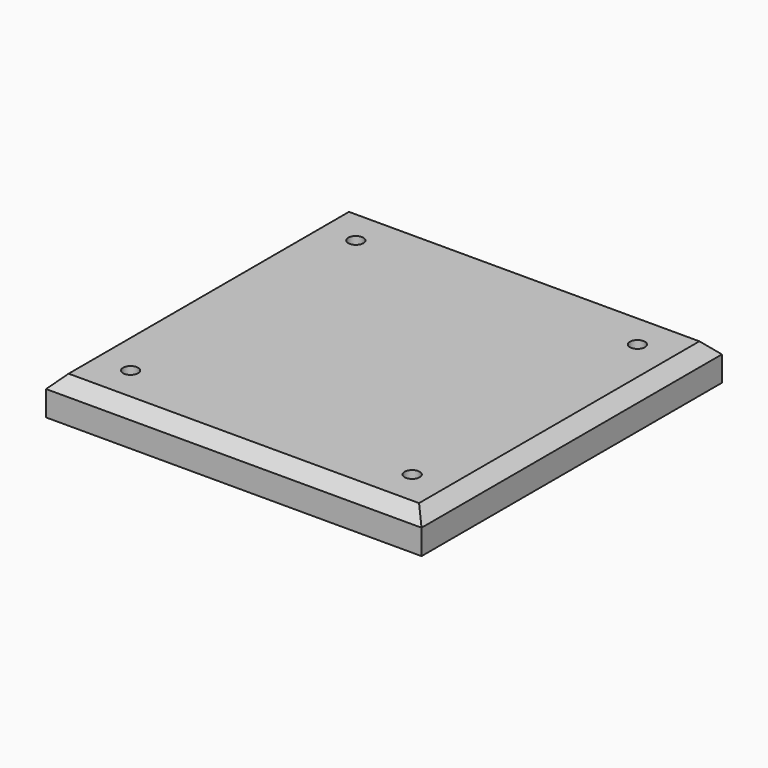
from build123d import *

# Parameters (mm, degrees)
F0_W          = 300
F0_H          = 300
F0_R          = 6
F1_DEPTH      = 15
F2_SIZE2      = 10
F2_SIZE       = 10
F3_DEPTH      = 5
F3_DEPTH_BACK = 15
F4_DEPTH      = 5
F4_DEPTH_BACK = 15


with BuildPart() as f1:
    # F0 (on Top) → F1 (new body, symmetric)
    with BuildSketch(Plane.XY):
        Rectangle(F0_W, F0_H)
        with Locations((-125, -125)):
            Circle(F0_R, mode=Mode.SUBTRACT)
        with Locations((-112.5, -112.5)):
            Circle(F0_R, mode=Mode.SUBTRACT)
        with Locations((125, -125)):
            Circle(F0_R, mode=Mode.SUBTRACT)
        with Locations((112.5, -112.5)):
            Circle(F0_R, mode=Mode.SUBTRACT)
        with Locations((-125, 125)):
            Circle(F0_R, mode=Mode.SUBTRACT)
        with Locations((-112.5, 112.5)):
            Circle(F0_R, mode=Mode.SUBTRACT)
        with Locations((112.5, 112.5)):
            Circle(F0_R, mode=Mode.SUBTRACT)
        with Locations((125, 125)):
            Circle(F0_R, mode=Mode.SUBTRACT)
    extrude(amount=F1_DEPTH, both=True)

    # F2
    f2_edges = [f1.edges().sort_by_distance(p)[0] for p in [
        (0, 150, 15),
        (0, -150, 15),
        (150, 0, 15),
        (-150, 0, 15),
    ]]
    chamfer(f2_edges, length=F2_SIZE, length2=F2_SIZE2)

    # F0 (on Top) → F3 (join, two sides)
    with BuildSketch(Plane.XY) as f3_sk:
        with Locations((-112.5, 112.5)):
            Circle(F0_R)
        with Locations((112.5, 112.5)):
            Circle(F0_R)
        with Locations((112.5, -112.5)):
            Circle(F0_R)
        with Locations((-112.5, -112.5)):
            Circle(F0_R)
    extrude(amount=F3_DEPTH)
    extrude(f3_sk.sketch, amount=-F3_DEPTH_BACK)

    # F0 (on Top) → F4 (join, two sides)
    with BuildSketch(Plane.XY) as f4_sk:
        with Locations((-125, 125)):
            Circle(F0_R)
        with Locations((125, 125)):
            Circle(F0_R)
        with Locations((125, -125)):
            Circle(F0_R)
        with Locations((-125, -125)):
            Circle(F0_R)
    extrude(amount=-F4_DEPTH)
    extrude(f4_sk.sketch, amount=F4_DEPTH_BACK)


solid = f1.part
